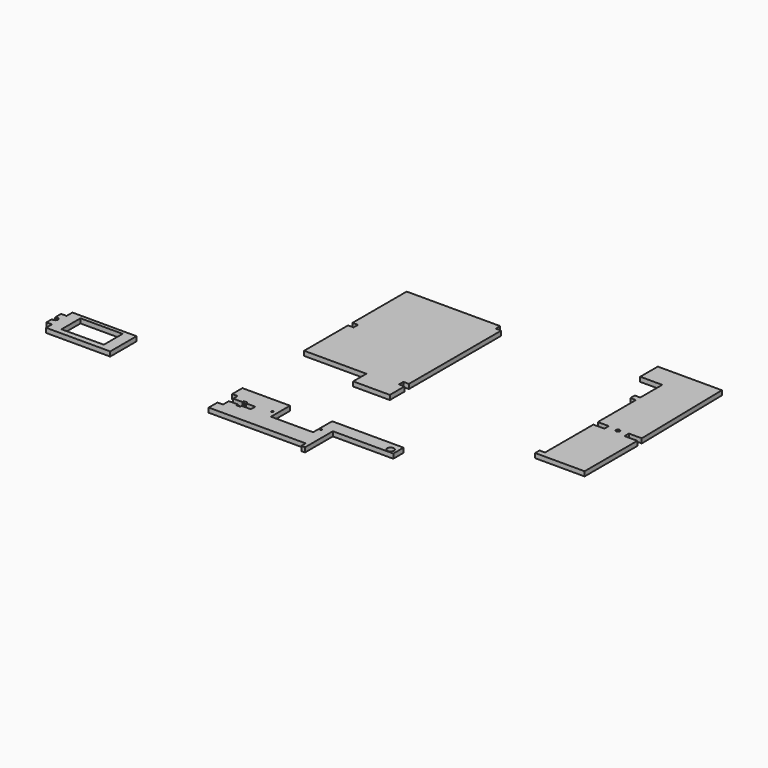
from build123d import *

# Parameters (mm, degrees)
F1_DEPTH       = 2.5
F3_DEPTH       = 2.5
F5_D           = 2
F5_CSINK_D     = 3
F5_CSINK_ANGLE = 90
F7_DEPTH       = 2.5
F9_D           = 2
F9_CSINK_D     = 3
F9_CSINK_ANGLE = 90
F11_DEPTH      = 2.5
F12_R          = 0.5
F12_R_2        = 1.8508453111
F13_DEPTH      = 2.5


with BuildPart() as f1:
    # F0 (on Top) → F1 (new body)
    with BuildSketch(Plane.XY):
        Polygon((-54, -25.8063164353), (-54, -55.8063164353), (-20, -55.8063164353), (-20, -64.8063164353), (0, -64.8063164353), (0, -54.8063164353), (-3, -54.8063164353), (-3, -51.8063164353), (0, -51.8063164353), (0, 11.1936835647), (-3, 11.1936835647), (-3, 14.1936835647), (-54, 14.1936835647), (-54, -22.8063164353), (-51, -22.8063164353), (-51, -25.8063164353), align=None)
    extrude(amount=F1_DEPTH)


with BuildPart() as f3:
    # F2 (on Top) → F3 (new body)
    with BuildSketch(Plane.XY):
        Polygon((108.903167069, -29), (107.903167069, 27), (72.903167069, 27), (72.903167069, 15), (84.903167069, 15), (84.903167069, 0), (81.903167069, 0), (81.903167069, -3), (84.903167069, -3), (84.903167069, -29), (90.903167069, -29), (90.903167069, -32), (84.903167069, -32), (84.903167069, -65), (81.903167069, -65), (81.903167069, -68), (108.903167069, -68), (108.903167069, -32), (101.903167069, -32), (101.903167069, -29), align=None)
    extrude(amount=F3_DEPTH)

    # F5 (through all)
    with Locations(Plane(origin=(0, 0, 0), x_dir=(1, 0, 0), z_dir=(0, 0, -1))):
        with Locations((96.5690612793, 29.7957230359)):
            CounterSinkHole(F5_D / 2, F5_CSINK_D / 2, counter_sink_angle=F5_CSINK_ANGLE)


with BuildPart() as f7:
    # F6 (on Top) → F7 (new body)
    with BuildSketch(Plane.XY):
        Polygon((-118.1951190233, -89.9575352669), (-153.1951190233, -89.9575352669), (-153.1951190233, -93.9575352669), (-156.1951190233, -93.9575352669), (-156.1951190233, -103.9575352669), (-153.1951190233, -103.9575352669), (-153.1951190233, -107.9575352669), (-118.1951190233, -107.9575352669), align=None)
    extrude(amount=F7_DEPTH)

    # F9 (through all)
    with Locations(Plane.XY.offset(2.5)):
        with Locations((-155.4041057825, -98.9575352669)):
            CounterSinkHole(F9_D / 2, F9_CSINK_D / 2, counter_sink_angle=F9_CSINK_ANGLE)

    # F10 (on face) → F11 (cut)
    with BuildSketch(Plane.XY.offset(2.5)):
        Polygon((-124.1951190233, -104.7698929906), (-124.1951190233, -93.0094867945), (-124.1951190233, -91.9575352669), (-147.1951190233, -91.9575352669), (-147.1951190233, -104.970395565), align=None)
    extrude(amount=-F11_DEPTH, mode=Mode.SUBTRACT)


with BuildPart() as f13:
    # F12 (on Top) → F13 (new body)
    with BuildSketch(Plane.XY):
        Polygon((-27, -99.1912931204), (-53, -99.1912931204), (-52.9571399093, -106.1912931204), (-50.0222370028, -106.1912931204), (-50.0222370028, -109.1912931204), (-45, -109.1912931204), (-45, -108.1912931204), (-43, -108.1912931204), (-43, -109.1912931204), (-38, -109.1912931204), (-38, -112.1912931204), (-43, -112.1912931204), (-43, -113.1912931204), (-45, -113.1912931204), (-45, -112.1912931204), (-50, -112.1912931204), (-50, -116.1912931204), (-53, -116.1912931204), (-53, -122.1912931204), (0, -122.1912931204), (0, -125.1912931204), (2, -125.1912931204), (2, -106.1912931204), (35, -106.1912931204), (35, -99.1912931204), (-4, -99.1912931204), (-4, -112.1912931204), (-27, -112.1912931204), align=None)
        with Locations((-29.508298263, -108.132481575)):
            Circle(F12_R, mode=Mode.SUBTRACT)
        with Locations((-2.8554352466, -108.132481575)):
            Circle(F12_R, mode=Mode.SUBTRACT)
        with Locations((31.7626520991, -103.996694088)):
            Circle(F12_R_2, mode=Mode.SUBTRACT)
    extrude(amount=F13_DEPTH)


solid = Compound([f1.part, f3.part, f7.part, f13.part])
